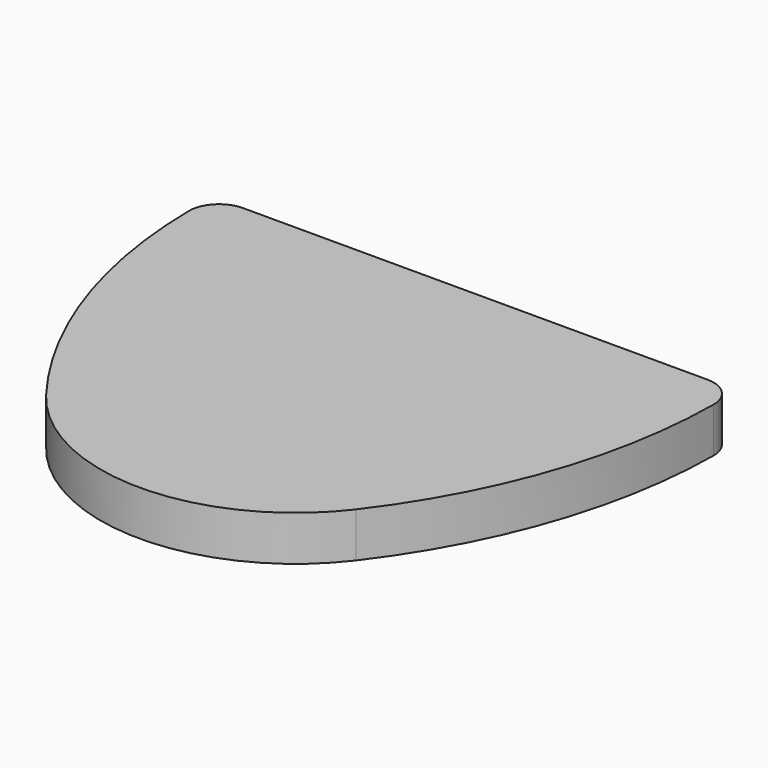
from build123d import *

# Parameters (mm, degrees)
F1_DEPTH = 3


with BuildPart() as f1:
    # F0 (on Top) → F1 (new body)
    with BuildSketch(Plane.XY):
        with BuildLine():
            Line((0, 0), (-15.5, 0))
            ThreePointArc((-15.5, 0), (-16.921363, -0.592973), (-17.499897, -2.020274))
            ThreePointArc((-17.499897, -2.020274), (-15.60578, -13.028563), (-10.339907, -22.879487))
            ThreePointArc((-10.339907, -22.879487), (0, -28), (10.339907, -22.879487))
            ThreePointArc((10.339907, -22.879487), (15.60578, -13.028563), (17.499897, -2.020274))
            ThreePointArc((17.499897, -2.020274), (16.921363, -0.592973), (15.5, 0))
            Line((15.5, 0), (0, 0))
        make_face()
    extrude(amount=F1_DEPTH)


solid = f1.part
